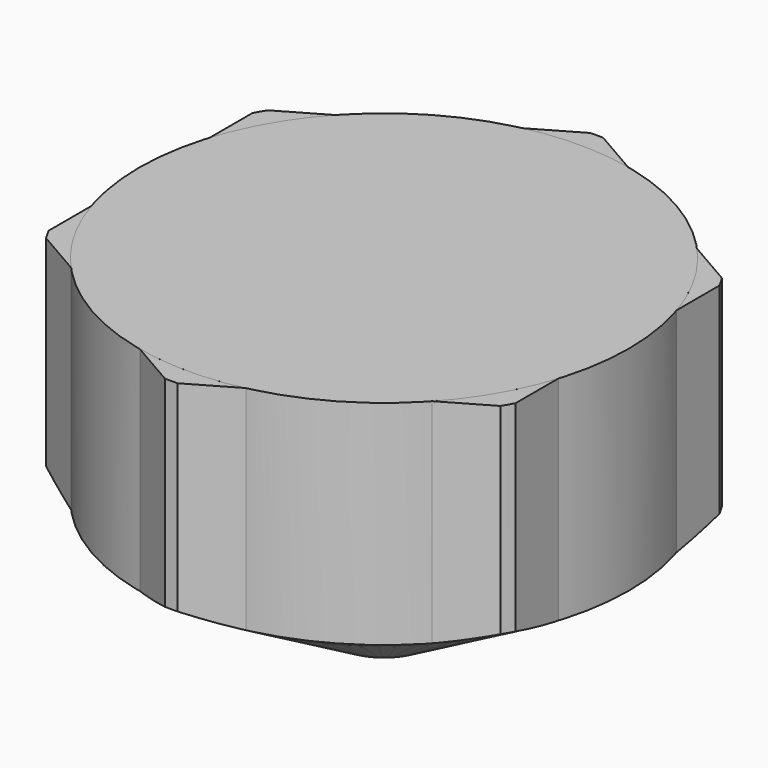
from build123d import *

# Parameters (mm, degrees)
F2_R     = 10.505318
F3_DEPTH = 25


with BuildPart() as f1:
    # F0 (on Front) → F1 (revolve)
    with BuildSketch(Plane.XZ):
        Polygon((0, 8.540897), (0, 0), (1.25, 0), (6.95, 3.290897), (6.95, 8.540897), align=None)
    revolve(axis=Axis((0, 0, 4.270448), (0, 0, -1)))

    # F2 (on face) → F3 (cut)
    with BuildSketch(Plane.XY.offset(8.540897)):
        Circle(F2_R)
        Polygon((0, 7.043673), (6.1, 3.521837), (6.1, -3.521837), (0, -7.043673), (-6.1, -3.521837), (-6.1, 3.521837), align=None, mode=Mode.SUBTRACT)
    extrude(amount=-F3_DEPTH, mode=Mode.SUBTRACT)


with BuildPart() as f5:
    # F4 (on Front) → F5 (revolve)
    with BuildSketch(Plane.XZ):
        Polygon((0, 8.541), (0, 0), (1.25, 0), (6.4, 2.973354), (6.4, 8.541), align=None)
    revolve(axis=Axis((0, 0, 4.2705), (0, 0, -1)))


solid = Compound([f1.part, f5.part])
